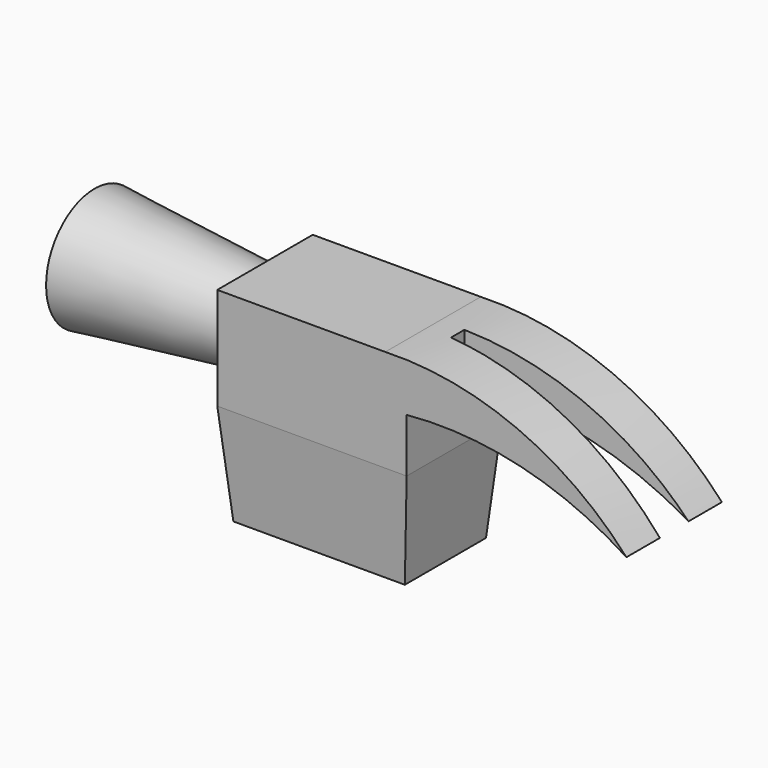
from build123d import *

# Parameters (mm, degrees)
F0_W      = 55.5363558233
F0_H      = 30
F1_DEPTH  = 17.5
F1_FACE_W = 55.5363558233
F1_FACE_H = 35
F2_DEPTH  = 30
F2_TAPER  = 5
F3_R      = 12.5
F4_DEPTH  = 50
F4_TAPER  = -6
F6_DEPTH  = 35
F8_DEPTH  = 35


with BuildPart() as f1:
    # F0 (on Front) → F1 (new body, symmetric)
    with BuildSketch(Plane.XZ):
        with Locations((27.7681779116, 15)):
            Rectangle(F0_W, F0_H)
    extrude(amount=F1_DEPTH, both=True)

    # F1_face (on face) → F2 (join)
    with BuildSketch(Plane(origin=(27.7681779116, 0, 0), x_dir=(1, 0, 0), z_dir=(0, 0, -1))):
        Rectangle(F1_FACE_W, F1_FACE_H)
    extrude(amount=F2_DEPTH, taper=F2_TAPER)

    # F3 (on face) → F4 (join)
    with BuildSketch(Plane(origin=(0, 0, 0), x_dir=(0, -1, 0), z_dir=(-1, 0, 0))):
        with Locations((0, 15)):
            Circle(F3_R)
    extrude(amount=F4_DEPTH, taper=F4_TAPER)

    # F5 (on face) → F6 (join)
    with BuildSketch(Plane.XZ.offset(17.5)):
        with BuildLine():
            ThreePointArc((120, 0), (87.9580104682, 22.8252746923), (49.2771938443, 30))
            Line((49.2771938443, 30), (49.2771938443, 15))
            ThreePointArc((49.2771938443, 15), (86.0226572611, 14.0256420707), (120, 0))
        make_face()
    extrude(amount=-F6_DEPTH)

    # F7 (on face) → F8 (cut)
    with BuildSketch(Plane.XY.offset(30)):
        Polygon((147.9074739632, 6.4577797765), (56.5133458154, 2.4674259652), (56.5133458154, -2.4674259652), (147.8689167317, -6.4560963314), align=None)
    extrude(amount=-F8_DEPTH, mode=Mode.SUBTRACT)


solid = f1.part
